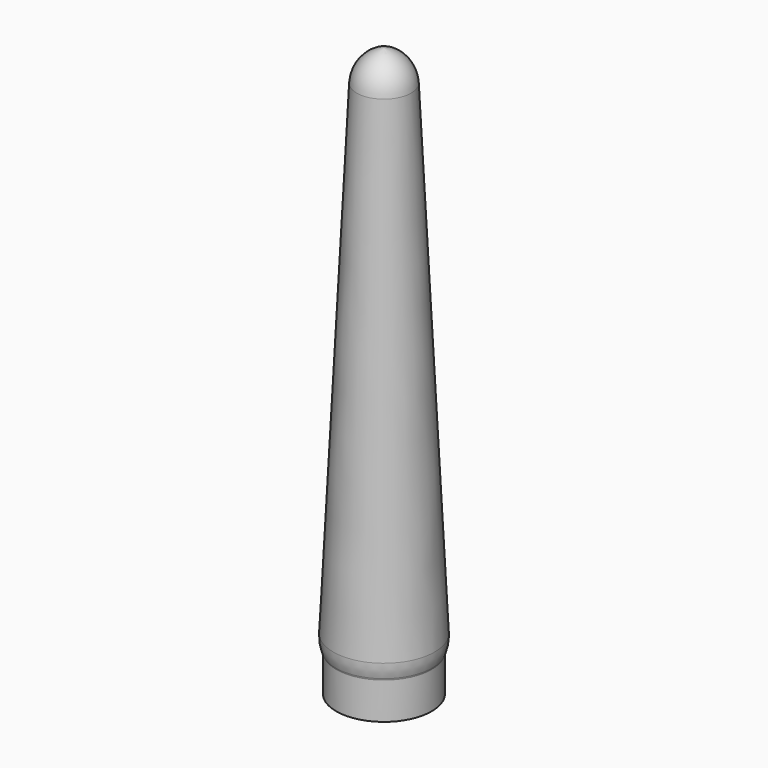
from build123d import *

# Parameters (mm, degrees)
F0_W = 13
F0_H = 10


with BuildPart() as f1:
    # F0 (on Front) → F1 (revolve)
    with BuildSketch(Plane.XZ):
        with BuildLine():
            Line((-13.175865, 0.465732), (-13, 0))
            Line((-13, 0), (0, 0))
            Line((0, 0), (0, 144.861212))
            ThreePointArc((0, 144.861212), (-5.181786, 141.945854), (-7.414996, 136.435592))
            Line((-7.414996, 136.435592), (-13.808902, 4.482346))
            ThreePointArc((-13.808902, 4.482346), (-13.698692, 2.441524), (-13.175865, 0.465732))
        make_face()
        with Locations((-6.5, -5)):
            Rectangle(F0_W, F0_H)
    revolve(axis=Axis((0, 0, 72.5), (0, 0, 1)))


solid = f1.part
